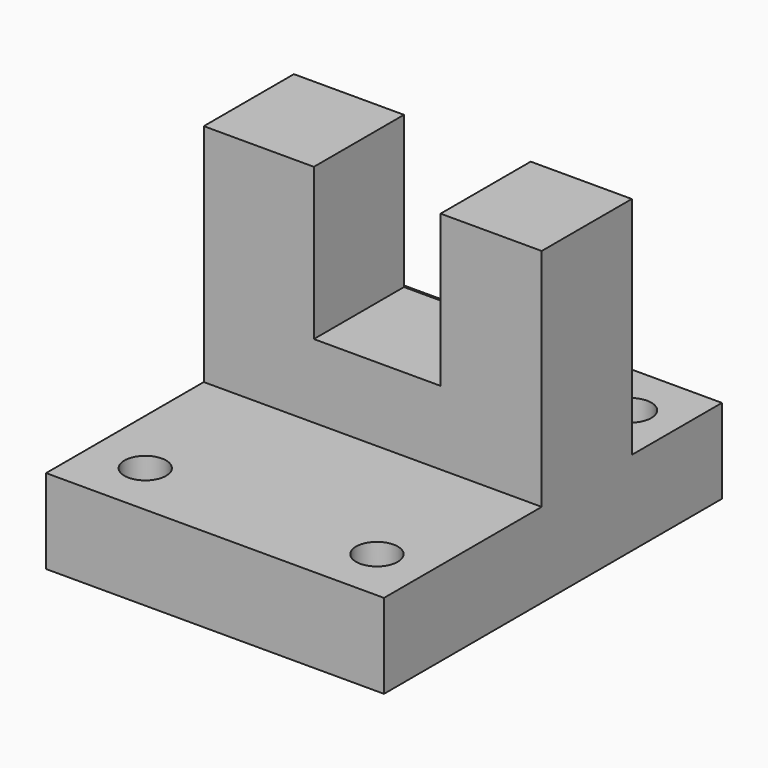
from build123d import *

# Parameters (mm, degrees)
F1_DEPTH = 76.2
F2_W     = 28.575
F2_H     = 34.19415
F3_DEPTH = 33.782
F4_R     = 4.699
F5_DEPTH = 53.594


with BuildPart() as f1:
    # F0 (on Right) → F1 (new body)
    with BuildSketch(Plane.YZ):
        Polygon((-28.850567, 0), (-28.850567, -19.05), (66.399433, -19.05), (66.399433, 0), (40.999433, 0), (40.999433, 50.8), (15.599433, 50.8), (15.599433, 0), align=None)
    extrude(amount=F1_DEPTH)

    # F2 (on face) → F3 (cut)
    with BuildSketch(Plane.XZ.offset(-15.599433)):
        with Locations((39.112404, 33.702925)):
            Rectangle(F2_W, F2_H)
    extrude(amount=-F3_DEPTH, mode=Mode.SUBTRACT)

    # F4 (on face) → F5 (cut)
    with BuildSketch(Plane.XY):
        with Locations((12.373271, 54.11797)):
            Circle(F4_R)
        with Locations((65.402929, 54.126016)):
            Circle(F4_R)
        with Locations((12.459423, -16.466378)):
            Circle(F4_R)
        with Locations((64.811589, -16.606646)):
            Circle(F4_R)
    extrude(amount=-F5_DEPTH, mode=Mode.SUBTRACT)


solid = f1.part
